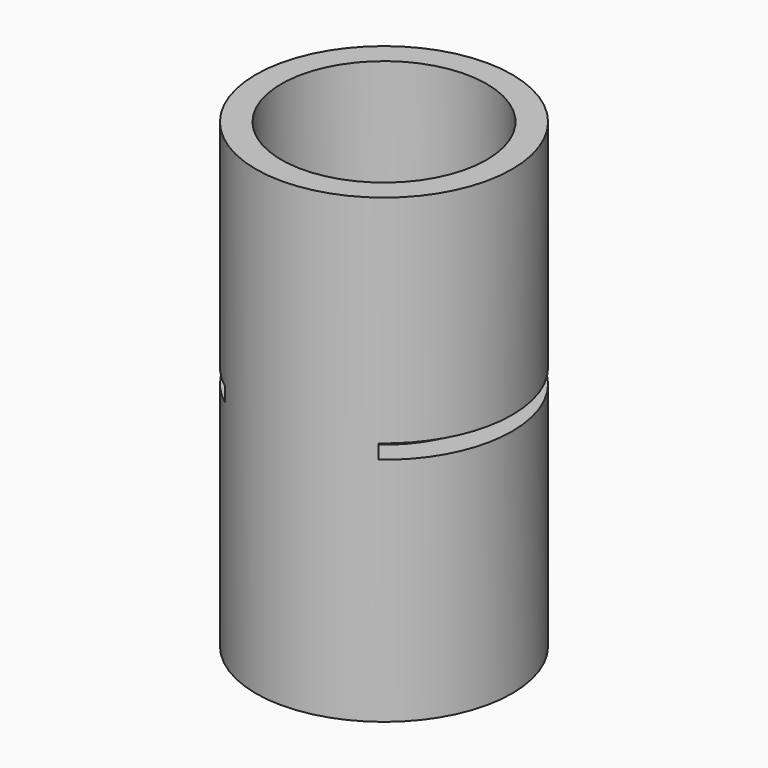
from build123d import *

# Parameters (mm, degrees)
F0_R     = 28.2106727932
F0_R_2   = 22.6152096398
F1_DEPTH = 101.6
F3_W     = 56.4213455863
F3_H     = 50.825882433
F4_DEPTH = 3.175


with BuildPart() as f1:
    # F0 (on Top) → F1 (new body)
    with BuildSketch(Plane.XY):
        Circle(F0_R)
        Circle(F0_R_2, mode=Mode.SUBTRACT)
    extrude(amount=F1_DEPTH)


with BuildPart() as f1_1:
    # F2: moved
    add(f1.part.moved(Location((0, 0, -50.8))))

    # F3 (on Top) → F4 (cut)
    with BuildSketch(Plane.XY):
        with Locations((0, 2.7977315767)):
            Rectangle(F3_W, F3_H)
    extrude(amount=F4_DEPTH, mode=Mode.SUBTRACT)


solid = f1_1.part
